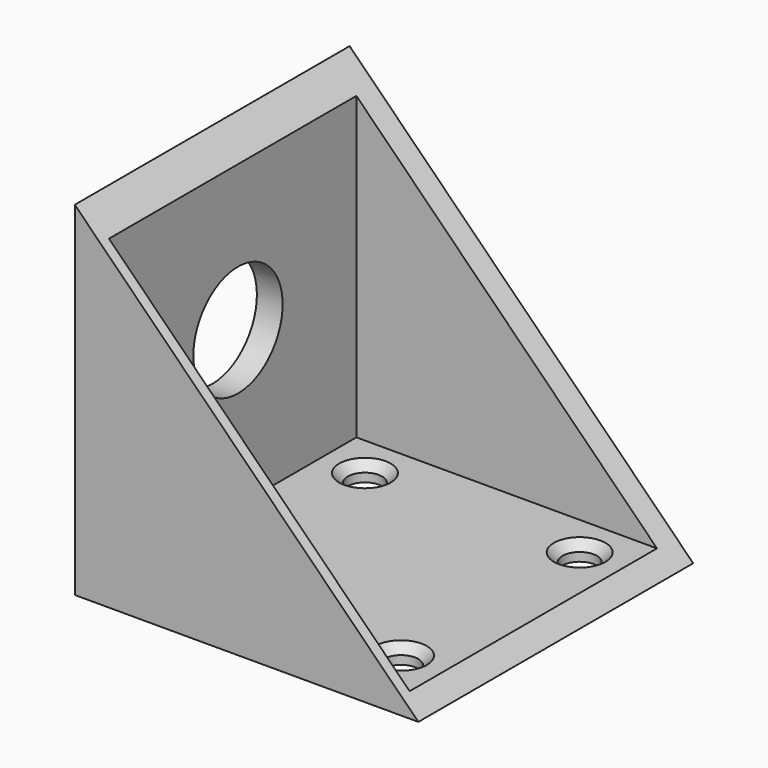
from build123d import *

# Parameters (mm, degrees)
PAD_DEPTH       = 40
SKETCH001_W     = 37
SKETCH001_H     = 36
POCKET_DEPTH    = 38
SKETCH002_R     = 6.5
POCKET001_DEPTH = 5
SKETCH003_R     = 2
POCKET002_DEPTH = 5
CHAMFER_SIZE    = 1


with BuildPart() as part:
    # Sketch → Pad (new body)
    with BuildSketch(Plane.XZ):
        Polygon((0, 0), (-40, 0), (-40, 40), align=None)
    extrude(amount=PAD_DEPTH)

    # Sketch001 (on DatumPlane) → Pocket (cut)
    with BuildSketch(Plane.XY.offset(40)):
        with Locations((-18.5, -20.771839)):
            Rectangle(SKETCH001_W, SKETCH001_H)
    extrude(amount=-POCKET_DEPTH, mode=Mode.SUBTRACT)

    # Sketch002 (on Face3 of Pocket) → Pocket001 (cut)
    with BuildSketch(Plane(origin=(-40, 0, 0), x_dir=(0, 0, -1), z_dir=(-1, 0, 0))):
        with Locations((-20, 20)):
            Circle(SKETCH002_R)
    extrude(amount=-POCKET001_DEPTH, mode=Mode.SUBTRACT)

    # Sketch003 (on Face9 of Pocket001) → Pocket002 (cut)
    with BuildSketch(Plane(origin=(0, 0, 2), x_dir=(-1, 0, 0), z_dir=(0, 0, 1))):
        with Locations((32, 33.771839)):
            Circle(SKETCH003_R)
        with Locations((7, 7.771839)):
            Circle(SKETCH003_R)
        with Locations((7, 33.771839)):
            Circle(SKETCH003_R)
        with Locations((32, 7.771839)):
            Circle(SKETCH003_R)
    extrude(amount=-POCKET002_DEPTH, mode=Mode.SUBTRACT)

    # Chamfer
    chamfer_edges = [part.edges().sort_by_distance(p)[0] for p in [
        (-30, -33.771839, 2),
        (-30, -7.771839, 2),
        (-5, -7.771839, 2),
        (-5, -33.771839, 2),
    ]]
    chamfer(chamfer_edges, length=CHAMFER_SIZE)


solid = part.part
